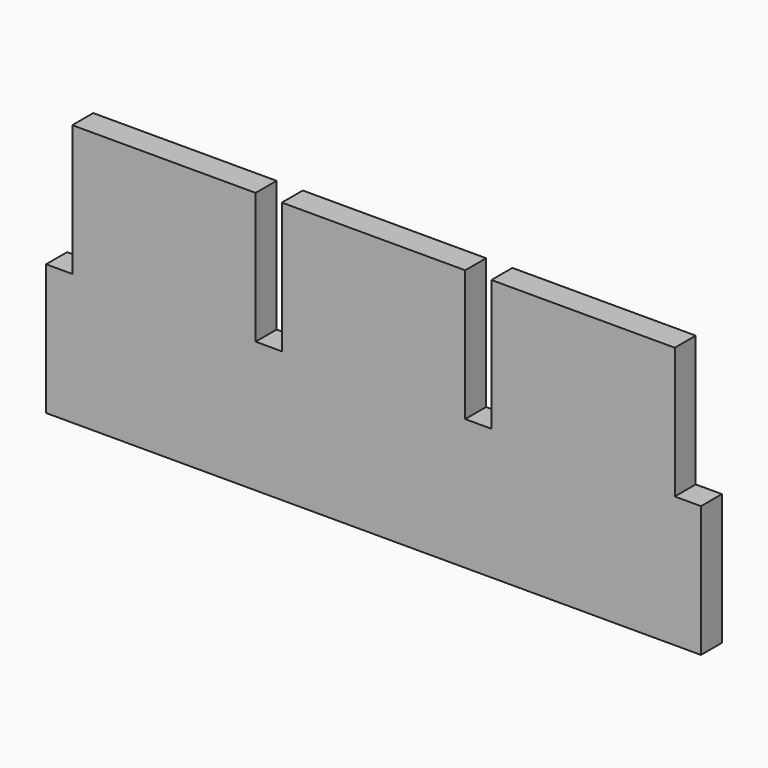
from build123d import *

# Parameters (mm, degrees)
F0_W     = 44.45
F0_H     = 31.75
F0_W_2   = 6.35
F1_DEPTH = 6.35


with BuildPart() as f1:
    # F0 (on Front) → F1 (new body)
    with BuildSketch(Plane.XZ):
        with Locations((-50.8, 15.875)):
            Rectangle(F0_W, F0_H)
        with Locations((0, 15.875)):
            Rectangle(F0_W, F0_H)
        with Locations((50.8, 15.875)):
            Rectangle(F0_W, F0_H)
        with Locations((-50.8, -15.875)):
            Rectangle(F0_W, F0_H)
        with Locations((0, -15.875)):
            Rectangle(F0_W, F0_H)
        with Locations((50.8, -15.875)):
            Rectangle(F0_W, F0_H)
        with Locations((-76.2, -15.875)):
            Rectangle(F0_W_2, F0_H)
        with Locations((-25.4, -15.875)):
            Rectangle(F0_W_2, F0_H)
        with Locations((25.4, -15.875)):
            Rectangle(F0_W_2, F0_H)
        with Locations((76.2, -15.875)):
            Rectangle(F0_W_2, F0_H)
    extrude(amount=F1_DEPTH)


solid = f1.part
